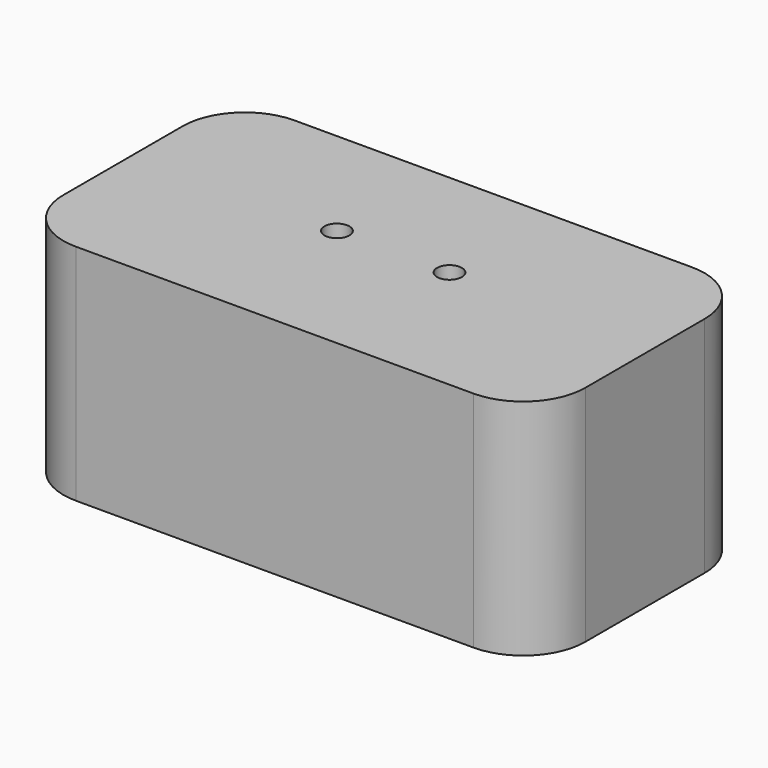
from build123d import *

# Parameters (mm, degrees)
F0_W     = 42
F0_H     = 22
F1_DEPTH = 13
F2_W     = 42
F2_H     = 22
F3_DEPTH = 5
F4_R     = 1
F5_DEPTH = 6
F6_R     = 5


with BuildPart() as f1:
    # F0 (on Top) → F1 (new body)
    with BuildSketch(Plane.XY):
        Rectangle(F0_W, F0_H)
        with BuildLine():
            ThreePointArc((-2.120368, -5.306732), (-19.5, 0), (-2.120368, 5.306732))
            Line((-2.120368, 5.306732), (2.120368, 5.306732))
            ThreePointArc((2.120368, 5.306732), (12.774302, 9.085882), (19.5, 0))
            ThreePointArc((19.5, 0), (12.774302, -9.085882), (2.120368, -5.306732))
            Line((2.120368, -5.306732), (-2.120368, -5.306732))
        make_face(mode=Mode.SUBTRACT)
    extrude(amount=F1_DEPTH)

    # F2 (on face) → F3 (join)
    with BuildSketch(Plane.XY.offset(13)):
        Rectangle(F2_W, F2_H)
    extrude(amount=F3_DEPTH)

    # F4 (on face) → F5 (cut)
    with BuildSketch(Plane.XY.offset(18)):
        with Locations((-4.52854, 0.924871)):
            Circle(F4_R)
        with Locations((4.52854, 0.924871)):
            Circle(F4_R)
    extrude(amount=-F5_DEPTH, mode=Mode.SUBTRACT)

    # F6
    f6_edges = [f1.edges().sort_by_distance(p)[0] for p in [
        (-21, -11, 9),
        (21, -11, 9),
        (-21, 11, 9),
        (21, 11, 9),
    ]]
    fillet(f6_edges, radius=F6_R)


solid = f1.part
